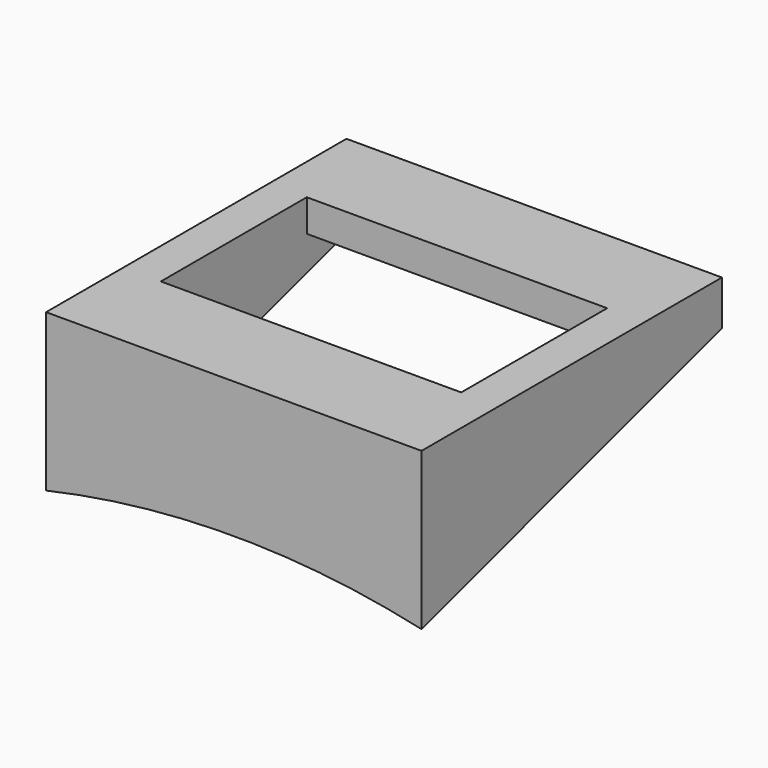
from build123d import *

# Parameters (mm, degrees)
SKETCH_W        = 35
SKETCH_H        = 35
PAD_DEPTH       = 92
SKETCH002_W     = 28
SKETCH002_H     = 28
POCKET001_DEPTH = 89
SKETCH003_W     = 28
SKETCH003_H     = 17
POCKET_DEPTH    = 92.001


with BuildPart() as kegel:
    # Cone → Cone (revolve)
    with BuildSketch(Plane(origin=(0, 19, 0), x_dir=(1, 0, 0), z_dir=(0, 0, -1))):
        Polygon((0, 0), (90, 0), (78, 41), (0, 41), align=None)
    revolve(axis=Axis((0, 19, 0), (0, -1, 0)))


with BuildPart() as cut:
    # Sketch → Pad (new body)
    with BuildSketch(Plane.XY):
        Rectangle(SKETCH_W, SKETCH_H)
    extrude(amount=PAD_DEPTH)

    # Sketch002 → Pocket001 (cut)
    with BuildSketch(Plane.XY):
        Rectangle(SKETCH002_W, SKETCH002_H)
    extrude(amount=POCKET001_DEPTH, mode=Mode.SUBTRACT)

    # Sketch003 → Pocket (cut, through all)
    with BuildSketch(Plane.XY):
        Rectangle(SKETCH003_W, SKETCH003_H)
    extrude(amount=POCKET_DEPTH, mode=Mode.SUBTRACT)

    # Cut: cut Kegel
    add(kegel.part, mode=Mode.SUBTRACT)


solid = cut.part
